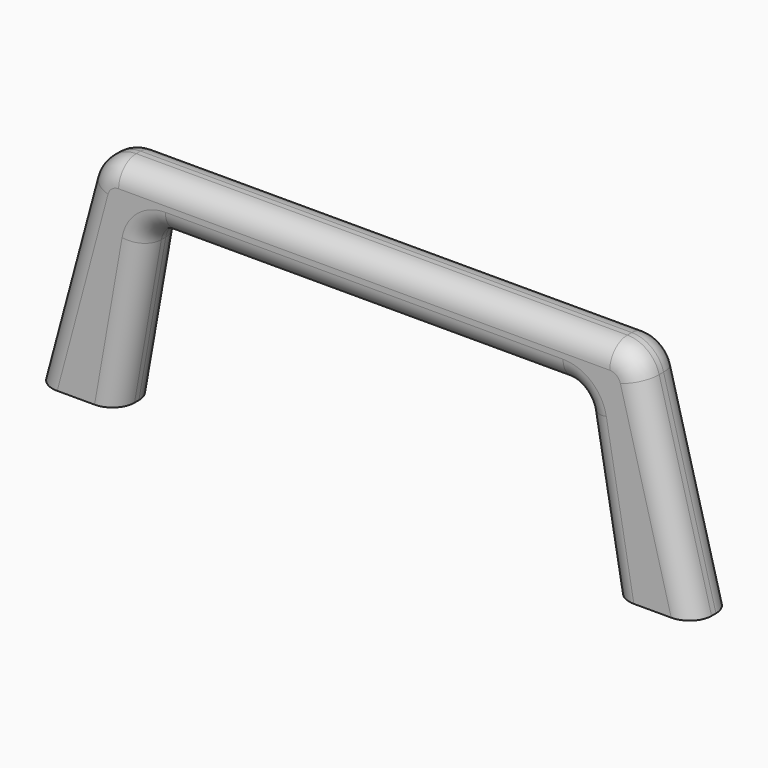
from build123d import *

# Parameters (mm, degrees)
F1_DEPTH = 22.5
F2_R     = 30
F3_R     = 20
F4_R     = 20


with BuildPart() as f1:
    # F0 (on Front) → F1 (new body, symmetric)
    with BuildSketch(Plane.XZ):
        Polygon((-246.410162, 200), (-300, 0), (-225, 0), (-197.669318, 155), (197.669318, 155), (225, 0), (300, 0), (246.410162, 200), align=None)
    extrude(amount=F1_DEPTH, both=True)

    # F2
    f2_edges = [f1.edges().sort_by_distance(p)[0] for p in [
        (246.410162, 0, 200),
        (-246.410162, 0, 200),
    ]]
    fillet(f2_edges, radius=F2_R)

    # F3
    f3_edges = [f1.edges().sort_by_distance(p)[0] for p in [
        (-197.669318, 0, 155),
        (197.669318, 0, 155),
    ]]
    fillet(f3_edges, radius=F3_R)

    # F4
    f4_edges = [f1.edges().sort_by_distance(p)[0] for p in [
        (0, 22.5, 200),
        (0, 22.5, 155),
        (212.79174, -22.5, 69.236482),
        (276.184063, -22.5, 88.882286),
    ]]
    fillet(f4_edges, radius=F4_R)


solid = f1.part
